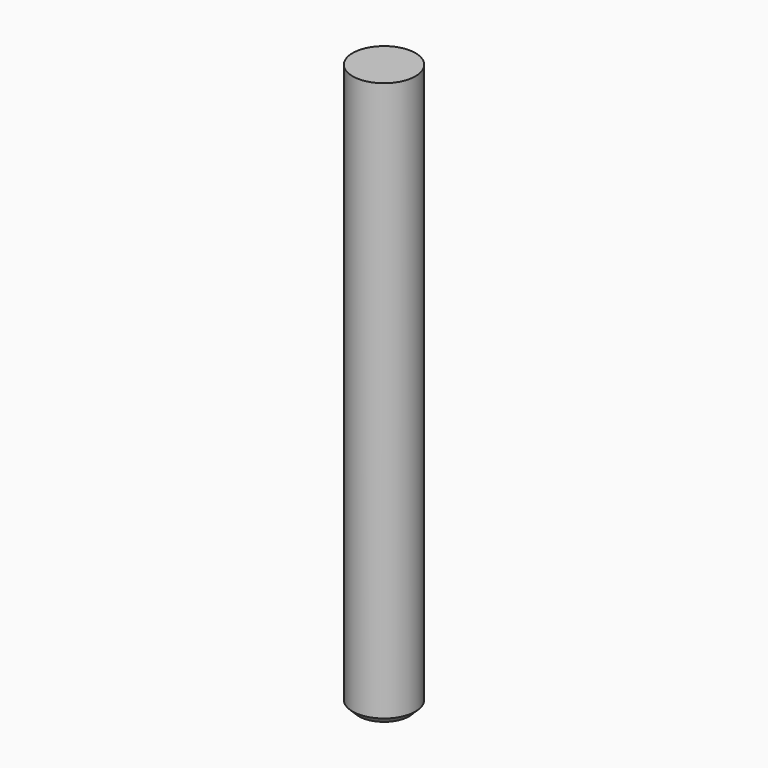
from build123d import *

# Parameters (mm, degrees)
F0_W    = 25.4
F0_H    = 457.2
F2_SIZE = 5.08


with BuildPart() as f1:
    # F0 (on Front) → F1 (revolve)
    with BuildSketch(Plane.XZ):
        with Locations((12.7, 0)):
            Rectangle(F0_W, F0_H)
    revolve(axis=Axis((0, 0, 0), (0, 0, -1)))

    # F2
    f2_edges = [f1.edges().sort_by_distance(p)[0] for p in [
        (-25.4, 0, -228.6),
    ]]
    chamfer(f2_edges, length=F2_SIZE)


solid = f1.part
